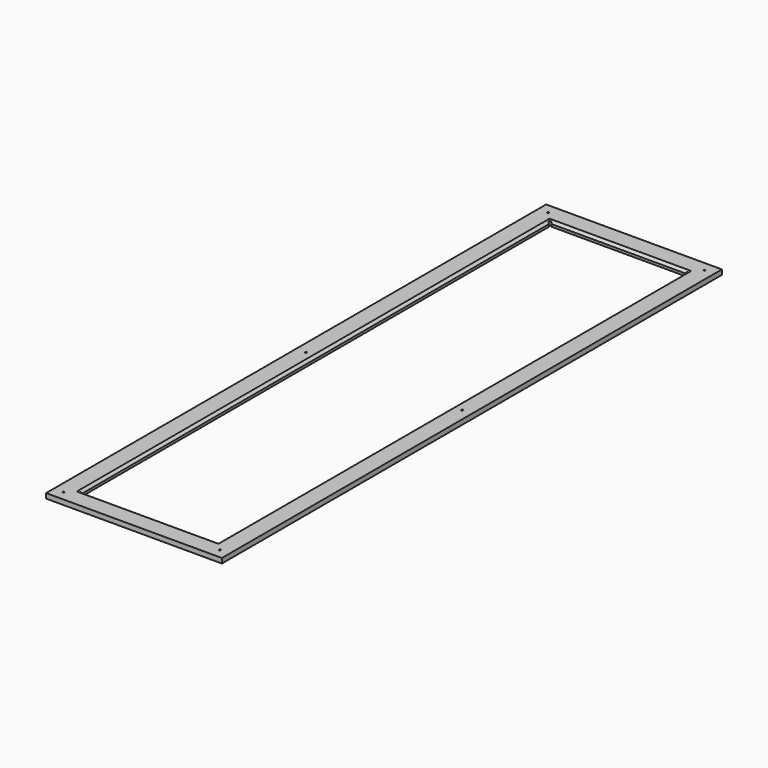
from build123d import *

# Parameters (mm, degrees)
F0_W     = 457.2
F0_H     = 1625.6
F0_W_2   = 355.6
F0_H_2   = 1524
F1_DEPTH = 12.7
F2_SIZE  = 6.35
F3_R     = 3.175
F4_DEPTH = 12.7
F5_R     = 2.15265
F6_DEPTH = 12.7


with BuildPart() as f1:
    # F0 (on Top) → F1 (new body)
    with BuildSketch(Plane.XY):
        Rectangle(F0_W, F0_H)
        Rectangle(F0_W_2, F0_H_2, mode=Mode.SUBTRACT)
    extrude(amount=F1_DEPTH)

    # F2
    f2_edges = [f1.edges().sort_by_distance(p)[0] for p in [
        (0, 762, 12.7),
        (-177.8, 0, 12.7),
        (177.8, 0, 12.7),
        (0, -762, 12.7),
    ]]
    chamfer(f2_edges, length=F2_SIZE)

    # F3 (on face) → F4 (cut, through all)
    with BuildSketch(Plane(origin=(0, 0, 0), x_dir=(1, 0, 0), z_dir=(0, 0, -1))):
        with Locations((-177.8, -762)):
            Circle(F3_R)
        with Locations((177.8, -762)):
            Circle(F3_R)
        with Locations((177.8, 762)):
            Circle(F3_R)
        with Locations((-177.8, 762)):
            Circle(F3_R)
    extrude(amount=-F4_DEPTH, mode=Mode.SUBTRACT)

    # F5 (on face) → F6 (cut, through all)
    with BuildSketch(Plane.XY.offset(12.7)):
        with Locations((-203.2, -787.4)):
            Circle(F5_R)
        with Locations((203.2, -787.4)):
            Circle(F5_R)
        with Locations((203.2, 0)):
            Circle(F5_R)
        with Locations((-203.2, 0)):
            Circle(F5_R)
        with Locations((-203.2, 787.4)):
            Circle(F5_R)
        with Locations((203.2, 787.4)):
            Circle(F5_R)
    extrude(amount=-F6_DEPTH, mode=Mode.SUBTRACT)


solid = f1.part
